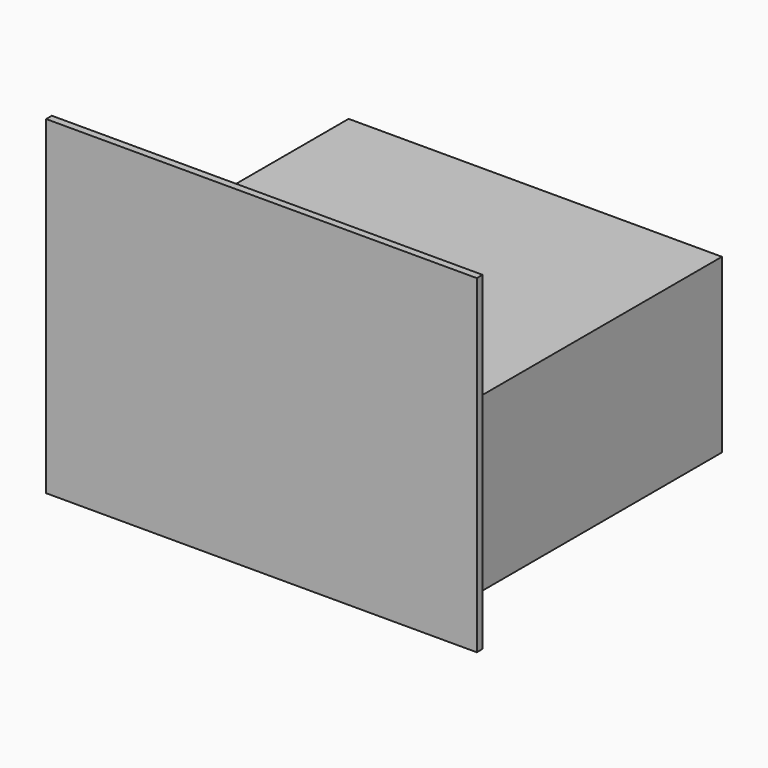
from build123d import *

# Parameters (mm, degrees)
F0_W     = 1300
F0_H     = 600
F1_DEPTH = 1200
F2_W     = 1500
F2_H     = 1147.1251249313
F2_W_2   = 1300
F2_H_2   = 600
F3_DEPTH = 25


with BuildPart() as f1:
    # F0 (on Front) → F1 (new body)
    with BuildSketch(Plane.XZ):
        with Locations((650, 300)):
            Rectangle(F0_W, F0_H)
    extrude(amount=F1_DEPTH)

    # F2 (on face) → F3 (join)
    with BuildSketch(Plane.XZ.offset(1200)):
        with Locations((676.4374375343, 500)):
            Rectangle(F2_W, F2_H)
        with Locations((650, 300)):
            Rectangle(F2_W_2, F2_H_2, mode=Mode.SUBTRACT)
        with Locations((650, 300)):
            Rectangle(F2_W_2, F2_H_2)
    extrude(amount=F3_DEPTH)


solid = f1.part
